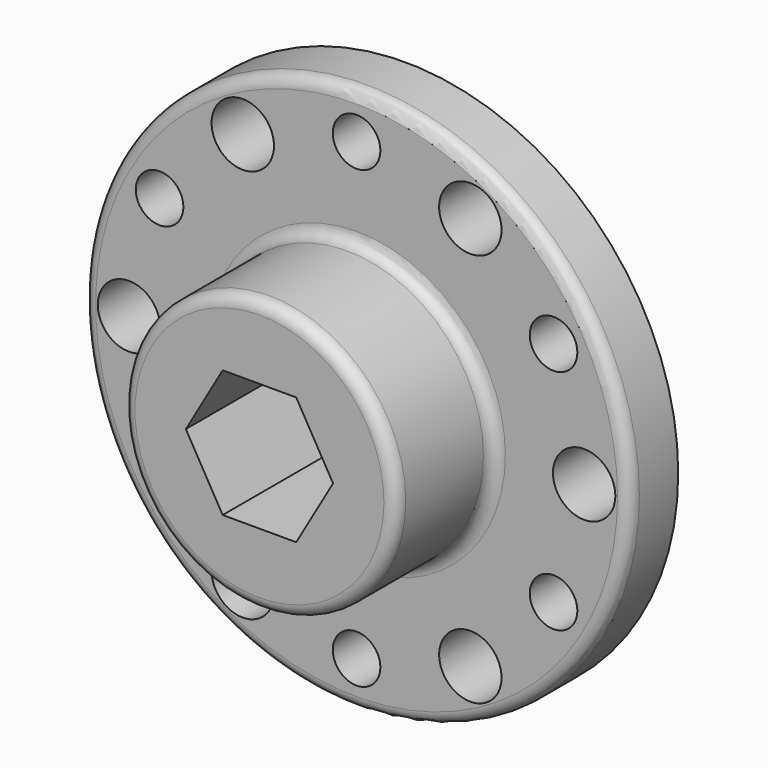
from build123d import *

# Parameters (mm, degrees)
F0_R     = 28.575
F0_R_2   = 3.2639
F0_R_3   = 2.4892
F0_R_4   = 14.29512
F1_DEPTH = 6.35
F2_DEPTH = 19.05
F3_R     = 1.27


with BuildPart() as f1:
    # F0 (on Front) → F1 (new body)
    with BuildSketch(Plane.XZ):
        Circle(F0_R)
        with Locations((-11.90625, -20.6222299276)):
            Circle(F0_R_2, mode=Mode.SUBTRACT)
        with Locations((-20.611231405, -11.8872)):
            Circle(F0_R_3, mode=Mode.SUBTRACT)
        with Locations((0, -23.7871)):
            Circle(F0_R_3, mode=Mode.SUBTRACT)
        with Locations((11.90625, -20.6222299276)):
            Circle(F0_R_2, mode=Mode.SUBTRACT)
        with Locations((20.611231405, -11.8872)):
            Circle(F0_R_3, mode=Mode.SUBTRACT)
        with Locations((-23.8125, 0)):
            Circle(F0_R_2, mode=Mode.SUBTRACT)
        with Locations((-20.611231405, 11.9126)):
            Circle(F0_R_3, mode=Mode.SUBTRACT)
        with Locations((-11.90625, 20.6222299276)):
            Circle(F0_R_2, mode=Mode.SUBTRACT)
        Circle(F0_R_4, mode=Mode.SUBTRACT)
        with Locations((23.8125, 0)):
            Circle(F0_R_2, mode=Mode.SUBTRACT)
        with Locations((20.611231405, 11.9126)):
            Circle(F0_R_3, mode=Mode.SUBTRACT)
        with Locations((11.90625, 20.6222299276)):
            Circle(F0_R_2, mode=Mode.SUBTRACT)
        with Locations((0, 23.8125)):
            Circle(F0_R_3, mode=Mode.SUBTRACT)
        Circle(F0_R_4)
        Polygon((-7.6989658396, 0.0127), (-3.8494829198, 6.6802), (3.8494829198, 6.6802), (7.6989658396, 0.0127), (3.8494829198, -6.6548), (-3.8494829198, -6.6548), align=None, mode=Mode.SUBTRACT)
    extrude(amount=F1_DEPTH)

    # F0 (on Front) → F2 (join)
    with BuildSketch(Plane.XZ):
        Circle(F0_R_4)
        Polygon((-7.6989658396, 0.0127), (-3.8494829198, 6.6802), (3.8494829198, 6.6802), (7.6989658396, 0.0127), (3.8494829198, -6.6548), (-3.8494829198, -6.6548), align=None, mode=Mode.SUBTRACT)
    extrude(amount=F2_DEPTH)

    # F3
    f3_edges = [f1.edges().sort_by_distance(p)[0] for p in [
        (-28.575, -6.35, 0),
        (-14.29512, -19.05, 0),
        (-14.29512, -6.35, 0),
    ]]
    fillet(f3_edges, radius=F3_R)


solid = f1.part
